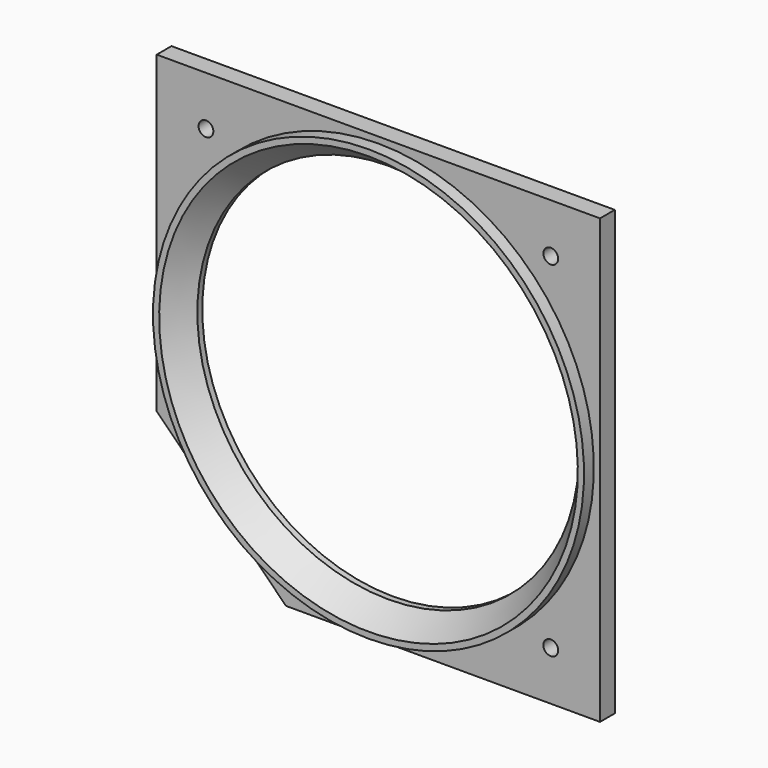
from build123d import *

# Parameters (mm, degrees)
F3_R     = 1.2
F3_R_2   = 35
F4_DEPTH = 3


with BuildPart() as f1:
    # F0 (on Right) → F1 (revolve)
    with BuildSketch(Plane.YZ):
        Polygon((2, 35), (-3, 35), (-3, 34), (1, 31), (2, 31), align=None)
    revolve(axis=Axis((0, 1.602868, 0), (0, -1, 0)))

    # F3 (on offset) → F4 (join)
    with BuildSketch(Plane.XZ.offset(1)):
        Polygon((-15, -36), (36, -36), (36, 36), (-36, 36), (-36, -15), align=None)
        with Locations((28, -28)):
            Circle(F3_R, mode=Mode.SUBTRACT)
        with Locations((-28, 28)):
            Circle(F3_R, mode=Mode.SUBTRACT)
        Circle(F3_R_2, mode=Mode.SUBTRACT)
        with Locations((28, 28)):
            Circle(F3_R, mode=Mode.SUBTRACT)
    extrude(amount=-F4_DEPTH)


solid = f1.part
